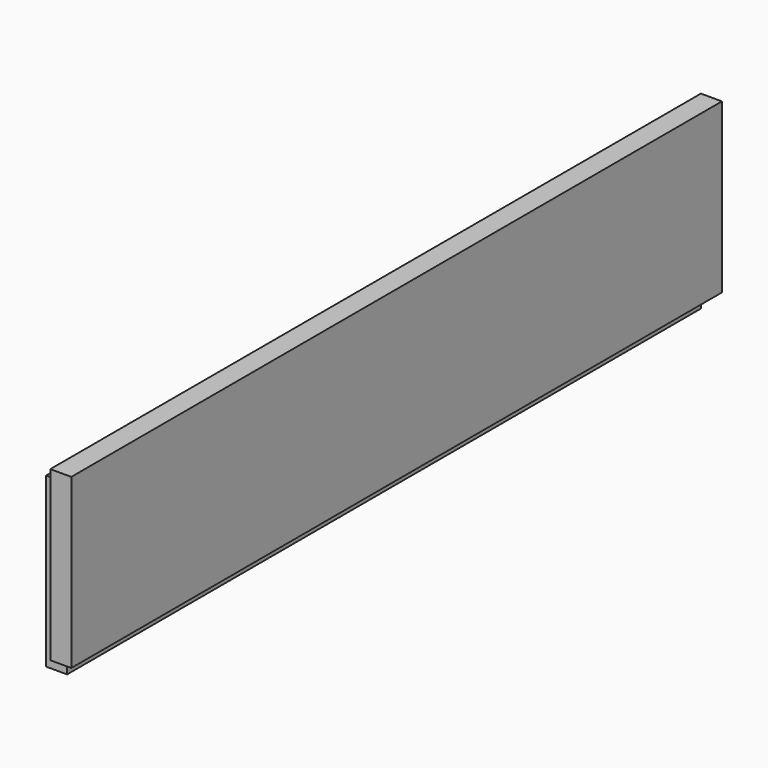
from build123d import *

# Parameters (mm, degrees)
F0_W     = 174
F0_H     = 40.5
F1_DEPTH = 9
F2_W     = 4.5
F2_H     = 174
F3_DEPTH = 4.5
F4_W     = 4.5
F4_H     = 4.5
F5_DEPTH = 36
F6_W     = 4.5
F6_H     = 4.5
F7_DEPTH = 4.5
F8_W     = 4.5
F8_H     = 169.5
F9_DEPTH = 4.5


with BuildPart() as f1:
    # F0 (on Right) → F1 (new body)
    with BuildSketch(Plane.YZ):
        Rectangle(F0_W, F0_H)
    extrude(amount=F1_DEPTH)

    # F2 (on face) → F3 (cut)
    with BuildSketch(Plane.XY.offset(20.25)):
        with Locations((2.25, 0)):
            Rectangle(F2_W, F2_H)
    extrude(amount=-F3_DEPTH, mode=Mode.SUBTRACT)

    # F4 (on face) → F5 (cut, through all)
    with BuildSketch(Plane.XY.offset(15.75)):
        with Locations((2.25, -84.75)):
            Rectangle(F4_W, F4_H)
    extrude(amount=-F5_DEPTH, mode=Mode.SUBTRACT)

    # F6 (on face) → F7 (cut)
    with BuildSketch(Plane(origin=(0, 0, -20.25), x_dir=(1, 0, 0), z_dir=(0, 0, -1))):
        with Locations((6.75, 84.75)):
            Rectangle(F6_W, F6_H)
    extrude(amount=-F7_DEPTH, mode=Mode.SUBTRACT)

    # F8 (on face) → F9 (cut)
    with BuildSketch(Plane(origin=(0, 0, -20.25), x_dir=(1, 0, 0), z_dir=(0, 0, -1))):
        with Locations((6.75, -2.25)):
            Rectangle(F8_W, F8_H)
    extrude(amount=-F9_DEPTH, mode=Mode.SUBTRACT)


solid = f1.part
